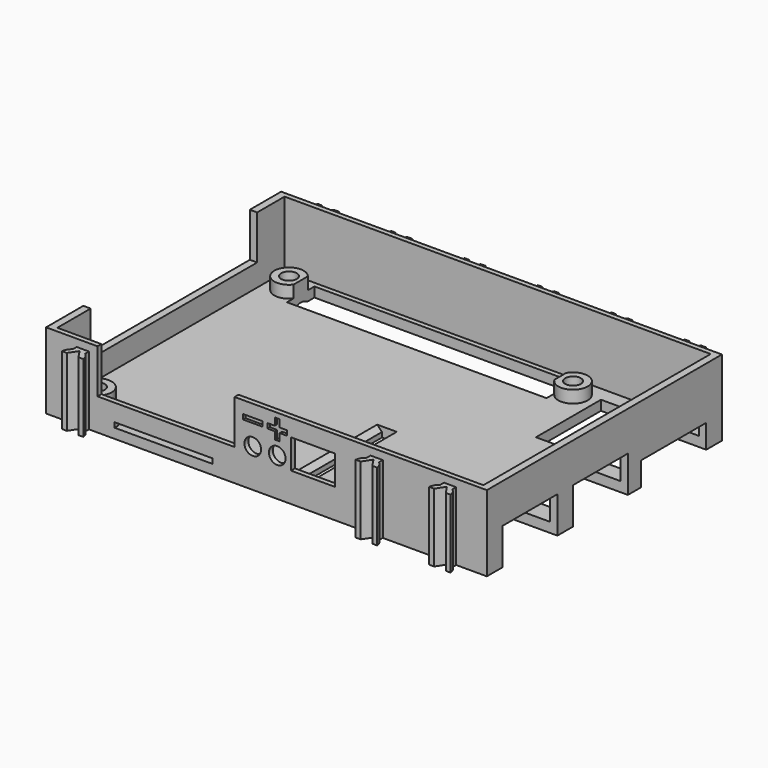
from build123d import *

# Parameters (mm, degrees)
CYLINDER036_R              = 2.9
CYLINDER036_DEPTH          = 1.3
CHAMFER005_SIZE            = 1.29
CYLINDER032_R              = 2.9
CYLINDER032_DEPTH          = 1.3
CHAMFER001_SIZE            = 1.29
EXTRUDE010_DEPTH           = 14
EXTRUDE015_DEPTH           = 14
EXTRUDE011_DEPTH           = 14
EXTRUDE011_PLACEMENT_ANGLE = 180
EXTRUDE012_DEPTH           = 14
EXTRUDE012_PLACEMENT_ANGLE = 180
EXTRUDE008_DEPTH           = 14
EXTRUDE008_PLACEMENT_ANGLE = 180
EXTRUDE014_DEPTH           = 14
EXTRUDE014_PLACEMENT_ANGLE = 180
EXTRUDE016_DEPTH           = 14
EXTRUDE016_PLACEMENT_ANGLE = 180
EXTRUDE013_DEPTH           = 14
EXTRUDE013_PLACEMENT_ANGLE = 180
EXTRUDE009_DEPTH           = 14
BOX044_W                   = 3
BOX044_H                   = 22
BOX044_DEPTH               = 5
BOX045_W                   = 51
BOX045_H                   = 20
BOX045_DEPTH               = 1
FUSION045_PLACEMENT_ANGLE  = 180
BOX052_W                   = 3
BOX052_H                   = 20
BOX052_DEPTH               = 5
BOX046_W                   = 51
BOX046_H                   = 20
BOX046_DEPTH               = 1
FUSION046_PLACEMENT_ANGLE  = 90
BOX057_W                   = 22
BOX057_H                   = 14
BOX057_DEPTH               = 16.6
BOX058_W                   = 22
BOX058_H                   = 14
BOX058_DEPTH               = 16.6
BOX056_W                   = 26
BOX056_H                   = 16.6
BOX056_DEPTH               = 14
BOX039_W                   = 10
BOX039_H                   = 20.5
BOX039_DEPTH               = 9
BOX040_W                   = 10
BOX040_H                   = 6
BOX040_DEPTH               = 9
BOX041_W                   = 28
BOX041_H                   = 10
BOX041_DEPTH               = 9
BOX053_W                   = 4
BOX053_H                   = 0.6
BOX053_DEPTH               = 1
BOX054_W                   = 4
BOX054_H                   = 0.6
BOX054_DEPTH               = 1
BOX042_W                   = 4
BOX042_H                   = 0.6
BOX042_DEPTH               = 1
CYLINDER026_R              = 1.7
CYLINDER026_DEPTH          = 10
CYLINDER025_R              = 1.7
CYLINDER025_DEPTH          = 10
BOX055_W                   = 9
BOX055_H                   = 10
BOX055_DEPTH               = 6
BOX038_W                   = 10
BOX038_H                   = 16
BOX038_DEPTH               = 9
CYLINDER031_R              = 1.6
CYLINDER031_DEPTH          = 4.5
CYLINDER035_R              = 1.6
CYLINDER035_DEPTH          = 4.5
CYLINDER028_R              = 1.6
CYLINDER028_DEPTH          = 4.5
CYLINDER030_R              = 1.6
CYLINDER030_DEPTH          = 4.5
BOX049_W                   = 53
BOX049_H                   = 7
BOX049_DEPTH               = 16
CYLINDER027_R              = 3
CYLINDER027_DEPTH          = 2.5
CYLINDER029_R              = 3
CYLINDER029_DEPTH          = 2.5
CYLINDER034_R              = 3
CYLINDER034_DEPTH          = 2.5
CYLINDER033_R              = 3
CYLINDER033_DEPTH          = 2.5
BOX047_W                   = 87
BOX047_H                   = 58
BOX047_DEPTH               = 13.5
BOX050_W                   = 90
BOX050_H                   = 60
BOX050_DEPTH               = 15.5
CHAMFER_SIZE               = 1.5
CHAMFER006_1_SIZE          = 1.9
CHAMFER006_2_SIZE          = 1


with BuildPart() as chamfer005:
    # Cylinder036 → Cylinder036 (new body)
    with BuildSketch(Plane.XY):
        Circle(CYLINDER036_R)
    extrude(amount=CYLINDER036_DEPTH)

    # Chamfer005
    chamfer005_edges = [chamfer005.edges().sort_by_distance(p)[0] for p in [
        (-2.9, 0, 1.3),
    ]]
    chamfer(chamfer005_edges, length=CHAMFER005_SIZE)


with BuildPart() as chamfer005_1:
    # Chamfer005 placement: moved
    add(chamfer005.part.moved(Location((19, 24.5, 0))))


with BuildPart() as obj1:
    # Cylinder032 → Cylinder032 (new body)
    with BuildSketch(Plane.XY):
        Circle(CYLINDER032_R)
    extrude(amount=CYLINDER032_DEPTH)

    # Chamfer001
    chamfer001_edges = [obj1.edges().sort_by_distance(p)[0] for p in [
        (-2.9, 0, 1.3),
    ]]
    chamfer(chamfer001_edges, length=CHAMFER001_SIZE)


with BuildPart() as obj1_1:
    # Chamfer001 placement: moved
    add(obj1.part.moved(Location((-39, 24.5, 0))))

    # Fusion060: union Chamfer005
    add(chamfer005_1.part)


with BuildPart() as extrude010:
    # Sketch011 → Extrude010 (new body)
    with BuildSketch(Plane(origin=(0, 0, 0), x_dir=(1, 0, 0), z_dir=(0, 0, -1))):
        with BuildLine():
            Line((-38.75, 30), (-36.25, 30))
            Line((-36.25, 30), (-36.25, 31))
            ThreePointArc((-36.25, 31), (-35.603093, 31.696052), (-35.310083, 32.6))
            Line((-35.310083, 32.6), (-36.310083, 32.6))
            Line((-37.5, 30.810387), (-36.310083, 32.6))
            Line((-38.689917, 32.6), (-37.5, 30.810387))
            Line((-39.689917, 32.6), (-38.689917, 32.6))
            ThreePointArc((-39.689917, 32.6), (-39.396907, 31.696052), (-38.75, 31))
            Line((-38.75, 30), (-38.75, 31))
        make_face()
    extrude(amount=-EXTRUDE010_DEPTH)


with BuildPart() as extrude010_1:
    # Extrude010 placement: moved
    add(extrude010.part.moved(Location((60, 0, 0))))


with BuildPart() as extrude015:
    # Sketch012 → Extrude015 (new body)
    with BuildSketch(Plane(origin=(0, 0, 0), x_dir=(1, 0, 0), z_dir=(0, 0, -1))):
        with BuildLine():
            Line((-38.75, 30), (-36.25, 30))
            Line((-36.25, 30), (-36.25, 31))
            ThreePointArc((-36.25, 31), (-35.603093, 31.696052), (-35.310083, 32.6))
            Line((-35.310083, 32.6), (-36.310083, 32.6))
            Line((-37.5, 30.810387), (-36.310083, 32.6))
            Line((-38.689917, 32.6), (-37.5, 30.810387))
            Line((-39.689917, 32.6), (-38.689917, 32.6))
            ThreePointArc((-39.689917, 32.6), (-39.396907, 31.696052), (-38.75, 31))
            Line((-38.75, 30), (-38.75, 31))
        make_face()
    extrude(amount=-EXTRUDE015_DEPTH)


with BuildPart() as extrude015_1:
    # Extrude015 placement: moved
    add(extrude015.part.moved(Location((75, 0, 0))))


with BuildPart() as extrude011:
    # Sketch014 → Extrude011 (new body)
    with BuildSketch(Plane(origin=(0, 0, 0), x_dir=(1, 0, 0), z_dir=(0, 0, -1))):
        with BuildLine():
            Line((-38.75, 30), (-36.25, 30))
            Line((-36.25, 30), (-36.25, 31))
            ThreePointArc((-36.25, 31), (-35.603093, 31.696052), (-35.310083, 32.6))
            Line((-35.310083, 32.6), (-36.310083, 32.6))
            Line((-37.5, 30.810387), (-36.310083, 32.6))
            Line((-38.689917, 32.6), (-37.5, 30.810387))
            Line((-39.689917, 32.6), (-38.689917, 32.6))
            ThreePointArc((-39.689917, 32.6), (-39.396907, 31.696052), (-38.75, 31))
            Line((-38.75, 30), (-38.75, 31))
        make_face()
    extrude(amount=-EXTRUDE011_DEPTH)


with BuildPart() as extrude011_1:
    # Extrude011 placement: moved
    add(extrude011.part.moved(Location((-15, 0, 0))).rotate(Axis((-15, 0, 0), (0, 0, 1)), EXTRUDE011_PLACEMENT_ANGLE))


with BuildPart() as extrude012:
    # Sketch013 → Extrude012 (new body)
    with BuildSketch(Plane(origin=(0, 0, 0), x_dir=(1, 0, 0), z_dir=(0, 0, -1))):
        with BuildLine():
            Line((-38.75, 30), (-36.25, 30))
            Line((-36.25, 30), (-36.25, 31))
            ThreePointArc((-36.25, 31), (-35.603093, 31.696052), (-35.310083, 32.6))
            Line((-35.310083, 32.6), (-36.310083, 32.6))
            Line((-37.5, 30.810387), (-36.310083, 32.6))
            Line((-38.689917, 32.6), (-37.5, 30.810387))
            Line((-39.689917, 32.6), (-38.689917, 32.6))
            ThreePointArc((-39.689917, 32.6), (-39.396907, 31.696052), (-38.75, 31))
            Line((-38.75, 30), (-38.75, 31))
        make_face()
    extrude(amount=-EXTRUDE012_DEPTH)


with BuildPart() as extrude012_1:
    # Extrude012 placement: moved
    add(extrude012.part.rotate(Axis((0, 0, 0), (0, 0, 1)), EXTRUDE012_PLACEMENT_ANGLE))


with BuildPart() as extrude008:
    # Sketch018 → Extrude008 (new body)
    with BuildSketch(Plane(origin=(0, 0, 0), x_dir=(1, 0, 0), z_dir=(0, 0, -1))):
        with BuildLine():
            Line((-38.75, 30), (-36.25, 30))
            Line((-36.25, 30), (-36.25, 31))
            ThreePointArc((-36.25, 31), (-35.603093, 31.696052), (-35.310083, 32.6))
            Line((-35.310083, 32.6), (-36.310083, 32.6))
            Line((-37.5, 30.810387), (-36.310083, 32.6))
            Line((-38.689917, 32.6), (-37.5, 30.810387))
            Line((-39.689917, 32.6), (-38.689917, 32.6))
            ThreePointArc((-39.689917, 32.6), (-39.396907, 31.696052), (-38.75, 31))
            Line((-38.75, 30), (-38.75, 31))
        make_face()
    extrude(amount=-EXTRUDE008_DEPTH)


with BuildPart() as extrude008_1:
    # Extrude008 placement: moved
    add(extrude008.part.moved(Location((-30, 0, 0))).rotate(Axis((-30, 0, 0), (0, 0, 1)), EXTRUDE008_PLACEMENT_ANGLE))


with BuildPart() as extrude014:
    # Sketch015 → Extrude014 (new body)
    with BuildSketch(Plane(origin=(0, 0, 0), x_dir=(1, 0, 0), z_dir=(0, 0, -1))):
        with BuildLine():
            Line((-38.75, 30), (-36.25, 30))
            Line((-36.25, 30), (-36.25, 31))
            ThreePointArc((-36.25, 31), (-35.603093, 31.696052), (-35.310083, 32.6))
            Line((-35.310083, 32.6), (-36.310083, 32.6))
            Line((-37.5, 30.810387), (-36.310083, 32.6))
            Line((-38.689917, 32.6), (-37.5, 30.810387))
            Line((-39.689917, 32.6), (-38.689917, 32.6))
            ThreePointArc((-39.689917, 32.6), (-39.396907, 31.696052), (-38.75, 31))
            Line((-38.75, 30), (-38.75, 31))
        make_face()
    extrude(amount=-EXTRUDE014_DEPTH)


with BuildPart() as extrude014_1:
    # Extrude014 placement: moved
    add(extrude014.part.moved(Location((-60, 0, 0))).rotate(Axis((-60, 0, 0), (0, 0, 1)), EXTRUDE014_PLACEMENT_ANGLE))


with BuildPart() as extrude016:
    # Sketch017 → Extrude016 (new body)
    with BuildSketch(Plane(origin=(0, 0, 0), x_dir=(1, 0, 0), z_dir=(0, 0, -1))):
        with BuildLine():
            Line((-38.75, 30), (-36.25, 30))
            Line((-36.25, 30), (-36.25, 31))
            ThreePointArc((-36.25, 31), (-35.603093, 31.696052), (-35.310083, 32.6))
            Line((-35.310083, 32.6), (-36.310083, 32.6))
            Line((-37.5, 30.810387), (-36.310083, 32.6))
            Line((-38.689917, 32.6), (-37.5, 30.810387))
            Line((-39.689917, 32.6), (-38.689917, 32.6))
            ThreePointArc((-39.689917, 32.6), (-39.396907, 31.696052), (-38.75, 31))
            Line((-38.75, 30), (-38.75, 31))
        make_face()
    extrude(amount=-EXTRUDE016_DEPTH)


with BuildPart() as extrude016_1:
    # Extrude016 placement: moved
    add(extrude016.part.moved(Location((-45, 0, 0))).rotate(Axis((-45, 0, 0), (0, 0, 1)), EXTRUDE016_PLACEMENT_ANGLE))


with BuildPart() as extrude013:
    # Sketch016 → Extrude013 (new body)
    with BuildSketch(Plane(origin=(0, 0, 0), x_dir=(1, 0, 0), z_dir=(0, 0, -1))):
        with BuildLine():
            Line((-38.75, 30), (-36.25, 30))
            Line((-36.25, 30), (-36.25, 31))
            ThreePointArc((-36.25, 31), (-35.603093, 31.696052), (-35.310083, 32.6))
            Line((-35.310083, 32.6), (-36.310083, 32.6))
            Line((-37.5, 30.810387), (-36.310083, 32.6))
            Line((-38.689917, 32.6), (-37.5, 30.810387))
            Line((-39.689917, 32.6), (-38.689917, 32.6))
            ThreePointArc((-39.689917, 32.6), (-39.396907, 31.696052), (-38.75, 31))
            Line((-38.75, 30), (-38.75, 31))
        make_face()
    extrude(amount=-EXTRUDE013_DEPTH)


with BuildPart() as extrude013_1:
    # Extrude013 placement: moved
    add(extrude013.part.moved(Location((-75, 0, 0))).rotate(Axis((-75, 0, 0), (0, 0, 1)), EXTRUDE013_PLACEMENT_ANGLE))


with BuildPart() as obj2:
    # Sketch007 → Extrude009 (new body)
    with BuildSketch(Plane(origin=(0, 0, 0), x_dir=(1, 0, 0), z_dir=(0, 0, -1))):
        with BuildLine():
            Line((-38.75, 30), (-36.25, 30))
            Line((-36.25, 30), (-36.25, 31))
            ThreePointArc((-36.25, 31), (-35.603093, 31.696052), (-35.310083, 32.6))
            Line((-35.310083, 32.6), (-36.310083, 32.6))
            Line((-37.5, 30.810387), (-36.310083, 32.6))
            Line((-38.689917, 32.6), (-37.5, 30.810387))
            Line((-39.689917, 32.6), (-38.689917, 32.6))
            ThreePointArc((-39.689917, 32.6), (-39.396907, 31.696052), (-38.75, 31))
            Line((-38.75, 30), (-38.75, 31))
        make_face()
    extrude(amount=-EXTRUDE009_DEPTH)

    # Fusion044: union Extrude010, Extrude015, Extrude011, Extrude012, Extrude008, Extrude014, Extrude016, Extrude013
    add(extrude010_1.part)
    add(extrude015_1.part)
    add(extrude011_1.part)
    add(extrude012_1.part)
    add(extrude008_1.part)
    add(extrude014_1.part)
    add(extrude016_1.part)
    add(extrude013_1.part)


with BuildPart() as obj3:
    # Box044 → Box044 (new body)
    with BuildSketch(Plane(origin=(-5, -27, -1), x_dir=(1, 0, 0), z_dir=(0, 0, 1))):
        with Locations((1.5, 11)):
            Rectangle(BOX044_W, BOX044_H)
    extrude(amount=BOX044_DEPTH)


with BuildPart() as wire_channel:
    # Box045 → Box045 (new body)
    with BuildSketch(Plane(origin=(-5, -25, -1), x_dir=(1, 0, 0), z_dir=(0, 0, 1))):
        with Locations((25.5, 10)):
            Rectangle(BOX045_W, BOX045_H)
    extrude(amount=BOX045_DEPTH)

    # Fusion045: union obj3
    add(obj3.part)


with BuildPart() as wire_channel_1:
    # Fusion045 placement: moved
    add(wire_channel.part.moved(Location((0, -30, -1))).rotate(Axis((0, -30, -1), (0, 0, 1)), FUSION045_PLACEMENT_ANGLE))


with BuildPart() as obj4:
    # Box052 → Box052 (new body)
    with BuildSketch(Plane(origin=(-5, -25, -1), x_dir=(1, 0, 0), z_dir=(0, 0, 1))):
        with Locations((1.5, 10)):
            Rectangle(BOX052_W, BOX052_H)
    extrude(amount=BOX052_DEPTH)


with BuildPart() as wire_channel001:
    # Box046 → Box046 (new body)
    with BuildSketch(Plane(origin=(-5, -25, -1), x_dir=(1, 0, 0), z_dir=(0, 0, 1))):
        with Locations((25.5, 10)):
            Rectangle(BOX046_W, BOX046_H)
    extrude(amount=BOX046_DEPTH)

    # Fusion046: union obj4
    add(obj4.part)


with BuildPart() as wire_channel001_1:
    # Fusion046 placement: moved
    add(wire_channel001.part.moved(Location((-6, -30, 3))).rotate(Axis((-6, -30, 3), (0, 0, -1)), FUSION046_PLACEMENT_ANGLE))


with BuildPart() as usb003:
    # Box057 → Box057 (new body)
    with BuildSketch(Plane(origin=(27.5, -8, 4.8), x_dir=(1, 0, 0), z_dir=(0, 0, 1))):
        with Locations((11, 7)):
            Rectangle(BOX057_W, BOX057_H)
    extrude(amount=BOX057_DEPTH)


with BuildPart() as usb004:
    # Box058 → Box058 (new body)
    with BuildSketch(Plane(origin=(27.5, -26, 4.8), x_dir=(1, 0, 0), z_dir=(0, 0, 1))):
        with Locations((11, 7)):
            Rectangle(BOX058_W, BOX058_H)
    extrude(amount=BOX058_DEPTH)


with BuildPart() as fusion056:
    # Box056 → Box056 (new body)
    with BuildSketch(Plane(origin=(23.5, 9.4, 4.8), x_dir=(1, 0, 0), z_dir=(0, 0, 1))):
        with Locations((13, 8.3)):
            Rectangle(BOX056_W, BOX056_H)
    extrude(amount=BOX056_DEPTH)

    # Fusion056: union USB003, USB004
    add(usb003.part)
    add(usb004.part)


with BuildPart() as fusion056_1:
    # Fusion056 placement: moved
    add(fusion056.part.moved(Location((0, 0, -13.95))))


with BuildPart() as buchse_10_pol001:
    # Box039 → Box039 (new body)
    with BuildSketch(Plane(origin=(-45, 1.5, 6.5), x_dir=(1, 0, 0), z_dir=(0, 0, 1))):
        with Locations((5, 10.25)):
            Rectangle(BOX039_W, BOX039_H)
    extrude(amount=BOX039_DEPTH)


with BuildPart() as obj5:
    # Box040 → Box040 (new body)
    with BuildSketch(Plane(origin=(-45, -4.5, 6.5), x_dir=(1, 0, 0), z_dir=(0, 0, 1))):
        with Locations((5, 3)):
            Rectangle(BOX040_W, BOX040_H)
    extrude(amount=BOX040_DEPTH)


with BuildPart() as buchse_16_pol:
    # Box041 → Box041 (new body)
    with BuildSketch(Plane(origin=(-34.5, -30, 6.5), x_dir=(1, 0, 0), z_dir=(0, 0, 1))):
        with Locations((14, 5)):
            Rectangle(BOX041_W, BOX041_H)
    extrude(amount=BOX041_DEPTH)


with BuildPart() as obj6:
    # Box053 → Box053 (new body)
    with BuildSketch(Plane(origin=(0.2, -30, 12), x_dir=(1, 0, 0), z_dir=(0, 0, 1))):
        with Locations((2, 0.3)):
            Rectangle(BOX053_W, BOX053_H)
    extrude(amount=BOX053_DEPTH)


with BuildPart() as obj7:
    # Box054 → Box054 (new body)
    with BuildSketch(Plane(origin=(1.7, -30, 14.5), x_dir=(0, 0, -1), z_dir=(1, 0, 0))):
        with Locations((2, 0.3)):
            Rectangle(BOX054_W, BOX054_H)
    extrude(amount=BOX054_DEPTH)


with BuildPart() as obj8:
    # Box042 → Box042 (new body)
    with BuildSketch(Plane(origin=(-4.8, -30, 12), x_dir=(1, 0, 0), z_dir=(0, 0, 1))):
        with Locations((2, 0.3)):
            Rectangle(BOX042_W, BOX042_H)
    extrude(amount=BOX042_DEPTH)

    # Fusion054: union obj6, obj7
    add(obj6.part)
    add(obj7.part)


with BuildPart() as zylinder025:
    # Cylinder026 → Cylinder026 (new body)
    with BuildSketch(Plane(origin=(2.2, -20, 7.8), x_dir=(1, 0, 0), z_dir=(0, -1, 0))):
        Circle(CYLINDER026_R)
    extrude(amount=CYLINDER026_DEPTH)


with BuildPart() as obj9:
    # Cylinder025 → Cylinder025 (new body)
    with BuildSketch(Plane(origin=(-2.8, -20, 7.8), x_dir=(1, 0, 0), z_dir=(0, -1, 0))):
        Circle(CYLINDER025_R)
    extrude(amount=CYLINDER025_DEPTH)

    # Fusion053: union Zylinder025
    add(zylinder025.part)

    # Fusion055: union obj8
    add(obj8.part)


with BuildPart() as powerbuchse:
    # Box055 → Box055 (new body)
    with BuildSketch(Plane(origin=(5, -30, 6), x_dir=(1, 0, 0), z_dir=(0, 0, 1))):
        with Locations((4.5, 5)):
            Rectangle(BOX055_W, BOX055_H)
    extrude(amount=BOX055_DEPTH)


with BuildPart() as fusion058:
    # Box038 → Box038 (new body)
    with BuildSketch(Plane(origin=(-45, -20.5, 6.5), x_dir=(1, 0, 0), z_dir=(0, 0, 1))):
        with Locations((5, 8)):
            Rectangle(BOX038_W, BOX038_H)
    extrude(amount=BOX038_DEPTH)

    # Fusion036: union Buchse 10-pol001, obj5, Buchse 16-pol, obj9, Powerbuchse
    add(buchse_10_pol001.part)
    add(obj5.part)
    add(buchse_16_pol.part)
    add(obj9.part)
    add(powerbuchse.part)

    # Fusion058: union wire channel, wire channel001, Fusion056
    add(wire_channel_1.part)
    add(wire_channel001_1.part)
    add(fusion056_1.part)


with BuildPart() as zylinder030:
    # Cylinder031 → Cylinder031 (new body)
    with BuildSketch(Plane(origin=(-39, 24.5, 0), x_dir=(1, 0, 0), z_dir=(0, 0, 1))):
        Circle(CYLINDER031_R)
    extrude(amount=CYLINDER031_DEPTH)


with BuildPart() as fusion042:
    # Cylinder035 → Cylinder035 (new body)
    with BuildSketch(Plane(origin=(-39, -24.5, 0), x_dir=(1, 0, 0), z_dir=(0, 0, 1))):
        Circle(CYLINDER035_R)
    extrude(amount=CYLINDER035_DEPTH)

    # Fusion042: union Zylinder030
    add(zylinder030.part)


with BuildPart() as fusion042_1:
    # Fusion042 placement: moved
    add(fusion042.part.moved(Location((58, 0, 0))))


with BuildPart() as zylinder027:
    # Cylinder028 → Cylinder028 (new body)
    with BuildSketch(Plane(origin=(-39, 24.5, 0), x_dir=(1, 0, 0), z_dir=(0, 0, 1))):
        Circle(CYLINDER028_R)
    extrude(amount=CYLINDER028_DEPTH)


with BuildPart() as obj10:
    # Cylinder030 → Cylinder030 (new body)
    with BuildSketch(Plane(origin=(-39, -24.5, 0), x_dir=(1, 0, 0), z_dir=(0, 0, 1))):
        Circle(CYLINDER030_R)
    extrude(amount=CYLINDER030_DEPTH)

    # Fusion050: union Zylinder027
    add(zylinder027.part)

    # Fusion052: union Fusion042
    add(fusion042_1.part)


with BuildPart() as fusion057:
    # Box049 → Box049 (new body)
    with BuildSketch(Plane(origin=(-36.61, 21, 0), x_dir=(1, 0, 0), z_dir=(0, 0, 1))):
        with Locations((26.5, 3.5)):
            Rectangle(BOX049_W, BOX049_H)
    extrude(amount=BOX049_DEPTH)

    # Fusion057: union obj10
    add(obj10.part)


with BuildPart() as zylinder026:
    # Cylinder027 → Cylinder027 (new body)
    with BuildSketch(Plane(origin=(-39, 24.5, 2), x_dir=(1, 0, 0), z_dir=(0, 0, 1))):
        Circle(CYLINDER027_R)
    extrude(amount=CYLINDER027_DEPTH)


with BuildPart() as fusion048:
    # Cylinder029 → Cylinder029 (new body)
    with BuildSketch(Plane(origin=(-39, -24.5, 2), x_dir=(1, 0, 0), z_dir=(0, 0, 1))):
        Circle(CYLINDER029_R)
    extrude(amount=CYLINDER029_DEPTH)

    # Fusion048: union Zylinder026
    add(zylinder026.part)


with BuildPart() as fusion048_1:
    # Fusion048 placement: moved
    add(fusion048.part.moved(Location((58, 0, 0))))


with BuildPart() as zylinder033:
    # Cylinder034 → Cylinder034 (new body)
    with BuildSketch(Plane(origin=(-39, 24.5, 2), x_dir=(1, 0, 0), z_dir=(0, 0, 1))):
        Circle(CYLINDER034_R)
    extrude(amount=CYLINDER034_DEPTH)


with BuildPart() as obj11:
    # Cylinder033 → Cylinder033 (new body)
    with BuildSketch(Plane(origin=(-39, -24.5, 2), x_dir=(1, 0, 0), z_dir=(0, 0, 1))):
        Circle(CYLINDER033_R)
    extrude(amount=CYLINDER033_DEPTH)

    # Fusion043: union Zylinder033
    add(zylinder033.part)

    # Fusion047: union Fusion048
    add(fusion048_1.part)


with BuildPart() as obj12:
    # Box047 → Box047 (new body)
    with BuildSketch(Plane(origin=(-43.5, -29, 2), x_dir=(1, 0, 0), z_dir=(0, 0, 1))):
        with Locations((43.5, 29)):
            Rectangle(BOX047_W, BOX047_H)
    extrude(amount=BOX047_DEPTH)


with BuildPart() as obj13:
    # Box050 → Box050 (new body)
    with BuildSketch(Plane(origin=(-45, -30, 0), x_dir=(1, 0, 0), z_dir=(0, 0, 1))):
        with Locations((45, 30)):
            Rectangle(BOX050_W, BOX050_H)
    extrude(amount=BOX050_DEPTH)

    # Cut017: cut obj12
    add(obj12.part, mode=Mode.SUBTRACT)

    # Fusion049: union obj11
    add(obj11.part)

    # Cut018: cut Fusion057
    add(fusion057.part, mode=Mode.SUBTRACT)

    # Cut019: cut Fusion058
    add(fusion058.part, mode=Mode.SUBTRACT)

    # Fusion059: union obj2
    add(obj2.part)

    # Chamfer
    chamfer_edges = [obj13.edges().sort_by_distance(p)[0] for p in [
        (-40.6, -24.5, 0),
        (17.4, -24.5, 0),
    ]]
    chamfer(chamfer_edges, length=CHAMFER_SIZE)

    # Cut020: cut obj1
    add(obj1_1.part, mode=Mode.SUBTRACT)

    # Chamfer006 1
    chamfer006_1_edges = [obj13.edges().sort_by_distance(p)[0] for p in [
        (5, -14, 0),
    ]]
    chamfer(chamfer006_1_edges, length=CHAMFER006_1_SIZE)

    # Chamfer006 2
    chamfer006_2_edges = [obj13.edges().sort_by_distance(p)[0] for p in [
        (2, -14, 2),
    ]]
    chamfer(chamfer006_2_edges, length=CHAMFER006_2_SIZE)


with BuildPart() as obj13_1:
    # Chamfer006 placement: moved
    add(obj13.part.moved(Location((0, 0, 14.75))))


solid = obj13_1.part
